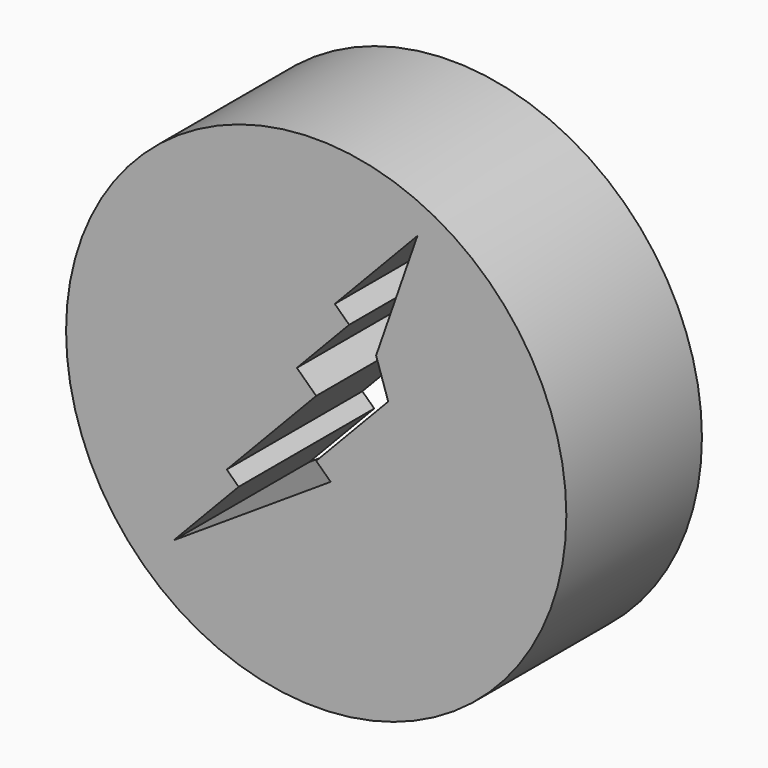
from build123d import *

# Parameters (mm, degrees)
F0_R     = 74.972812
F1_DEPTH = 50.8
F3_DEPTH = 76.2


with BuildPart() as f1:
    # F0 (on Front) → F1 (new body)
    with BuildSketch(Plane.XZ):
        Circle(F0_R)
    extrude(amount=F1_DEPTH)

    # F2 (on face) → F3 (cut)
    with BuildSketch(Plane.XZ.offset(50.8)):
        Polygon((17.951952, 23.678008), (30.332614, 59.272397), (5.571298, 33.273019), (9.883918, 29.165761), (-5.794326, 12.703607), (0, 7.185201), (-26.807584, -20.962759), (-23.24244, -24.358134), (-42.689349, -44.777386), (4.333233, -14.082998), (0, -9.956109), (21.580685, 12.703607), align=None)
    extrude(amount=-F3_DEPTH, mode=Mode.SUBTRACT)


solid = f1.part
